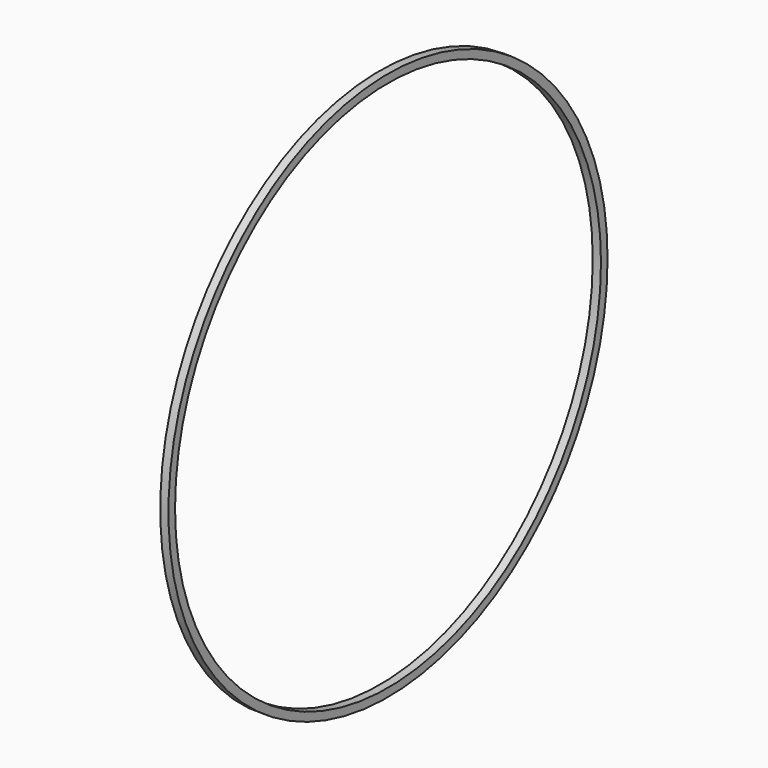
from build123d import *

# Parameters (mm, degrees)
F0_R     = 100
F1_DEPTH = 3
F2_R     = 97
F3_DEPTH = 3


with BuildPart() as f1:
    # F0 (on Right) → F1 (new body)
    with BuildSketch(Plane.YZ):
        with Locations((-420.608699, -91.933266)):
            Circle(F0_R)
    extrude(amount=F1_DEPTH)

    # F2 (on face) → F3 (cut)
    with BuildSketch(Plane.YZ.offset(3)):
        with Locations((-420.608699, -91.933266)):
            Circle(F2_R)
    extrude(amount=-F3_DEPTH, mode=Mode.SUBTRACT)


solid = f1.part
